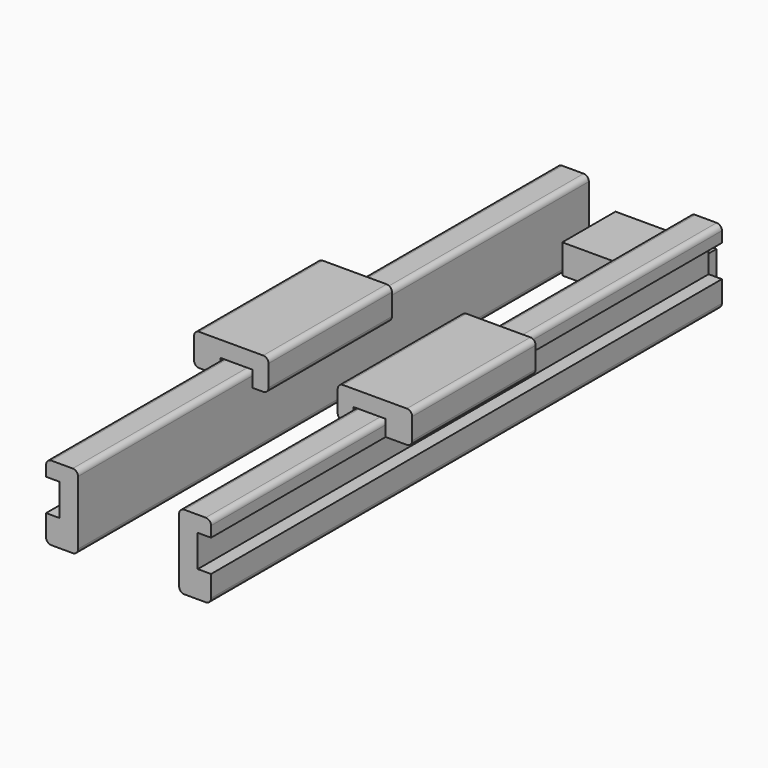
from build123d import *

# Parameters (mm, degrees)
F1_DEPTH      = 304.8
F2_START      = 127
F2_DEPTH      = 73.66
F4_DEPTH      = 15.875
F4_DEPTH_BACK = 15.875


with BuildPart() as f1:
    # F0 (on Front) → F1 (new body)
    with BuildSketch(Plane.XZ):
        with BuildLine():
            Line((-24.13, 2.54), (-24.13, 13.97))
            Line((-24.13, 13.97), (-24.13, 27.94))
            Line((-24.13, 27.94), (-24.13, 33.02))
            ThreePointArc((-24.13, 33.02), (-24.8739487758, 34.8160512242), (-26.67, 35.56))
            Line((-26.67, 35.56), (-36.83, 35.56))
            ThreePointArc((-36.83, 35.56), (-38.6260512242, 34.8160512242), (-39.37, 33.02))
            Line((-39.37, 33.02), (-39.37, 27.94))
            Line((-39.37, 27.94), (-33.02, 27.94))
            Line((-33.02, 27.94), (-33.02, 12.7))
            Line((-33.02, 12.7), (-39.37, 12.7))
            Line((-39.37, 12.7), (-39.37, 2.54))
            ThreePointArc((-39.37, 2.54), (-38.6260512242, 0.7439487758), (-36.83, 0))
            Line((-36.83, 0), (-26.67, 0))
            ThreePointArc((-26.67, 0), (-24.8739487758, 0.7439487758), (-24.13, 2.54))
        make_face()
    extrude(amount=F1_DEPTH)


with BuildPart() as f1b:
    # F0 (on Front) → F1, piece 2 (new body)
    with BuildSketch(Plane.XZ):
        with BuildLine():
            Line((24.13, 13.97), (24.13, 2.54))
            ThreePointArc((24.13, 2.54), (24.8739487758, 0.7439487758), (26.67, 0))
            Line((26.67, 0), (36.83, 0))
            ThreePointArc((36.83, 0), (38.6260512242, 0.7439487758), (39.37, 2.54))
            Line((39.37, 2.54), (39.37, 12.7))
            Line((39.37, 12.7), (33.02, 12.7))
            Line((33.02, 12.7), (33.02, 27.94))
            Line((33.02, 27.94), (39.37, 27.94))
            Line((39.37, 27.94), (39.37, 33.02))
            ThreePointArc((39.37, 33.02), (38.6260512242, 34.8160512242), (36.83, 35.56))
            Line((36.83, 35.56), (26.67, 35.56))
            ThreePointArc((26.67, 35.56), (24.8739487758, 34.8160512242), (24.13, 33.02))
            Line((24.13, 33.02), (24.13, 27.94))
            Line((24.13, 27.94), (24.13, 13.97))
        make_face()
    extrude(amount=F1_DEPTH)


with BuildPart() as f2:
    # F0 (on Front) → F2 (new body)
    with BuildSketch(Plane.XZ.offset(F2_START)):
        with BuildLine():
            Line((-24.13, 33.02), (-24.13, 27.94))
            Line((-24.13, 27.94), (-19.05, 27.94))
            ThreePointArc((-19.05, 27.94), (-17.2539487758, 28.6839487758), (-16.51, 30.48))
            Line((-16.51, 30.48), (-16.51, 40.64))
            ThreePointArc((-16.51, 40.64), (-17.2539487758, 42.4360512242), (-19.05, 43.18))
            Line((-19.05, 43.18), (-49.53, 43.18))
            ThreePointArc((-49.53, 43.18), (-51.3260512242, 42.4360512242), (-52.07, 40.64))
            Line((-52.07, 40.64), (-52.07, 30.48))
            ThreePointArc((-52.07, 30.48), (-51.3260512242, 28.6839487758), (-49.53, 27.94))
            Line((-49.53, 27.94), (-39.37, 27.94))
            Line((-39.37, 27.94), (-39.37, 33.02))
            Line((-39.37, 33.02), (-39.37, 35.56))
            Line((-39.37, 35.56), (-36.83, 35.56))
            Line((-36.83, 35.56), (-26.67, 35.56))
            Line((-26.67, 35.56), (-24.13, 35.56))
            Line((-24.13, 35.56), (-24.13, 33.02))
        make_face()
    extrude(amount=F2_DEPTH)


with BuildPart() as f2b:
    # F0 (on Front) → F2, piece 2 (new body)
    with BuildSketch(Plane.XZ.offset(F2_START)):
        with BuildLine():
            Line((19.05, 27.94), (24.13, 27.94))
            Line((24.13, 27.94), (24.13, 33.02))
            Line((24.13, 33.02), (24.13, 35.56))
            Line((24.13, 35.56), (26.67, 35.56))
            Line((26.67, 35.56), (36.83, 35.56))
            Line((36.83, 35.56), (39.37, 35.56))
            Line((39.37, 35.56), (39.37, 33.02))
            Line((39.37, 33.02), (39.37, 27.94))
            Line((39.37, 27.94), (49.53, 27.94))
            ThreePointArc((49.53, 27.94), (51.3260512242, 28.6839487758), (52.07, 30.48))
            Line((52.07, 30.48), (52.07, 40.64))
            ThreePointArc((52.07, 40.64), (51.3260512242, 42.4360512242), (49.53, 43.18))
            Line((49.53, 43.18), (19.05, 43.18))
            ThreePointArc((19.05, 43.18), (17.2539487758, 42.4360512242), (16.51, 40.64))
            Line((16.51, 40.64), (16.51, 30.48))
            ThreePointArc((16.51, 30.48), (17.2539487758, 28.6839487758), (19.05, 27.94))
        make_face()
    extrude(amount=F2_DEPTH)


with BuildPart() as f4:
    # F0 (on Front) → F4 (new body, two sides)
    with BuildSketch(Plane.XZ) as f4_sk:
        Polygon((24.13, 0), (24.13, 2.54), (24.13, 13.97), (-24.13, 13.97), (-24.13, 2.54), (-24.13, 0), align=None)
    extrude(amount=F4_DEPTH)
    extrude(f4_sk.sketch, amount=-F4_DEPTH_BACK)


solid = Compound([f1.part, f1b.part, f2.part, f2b.part, f4.part])
